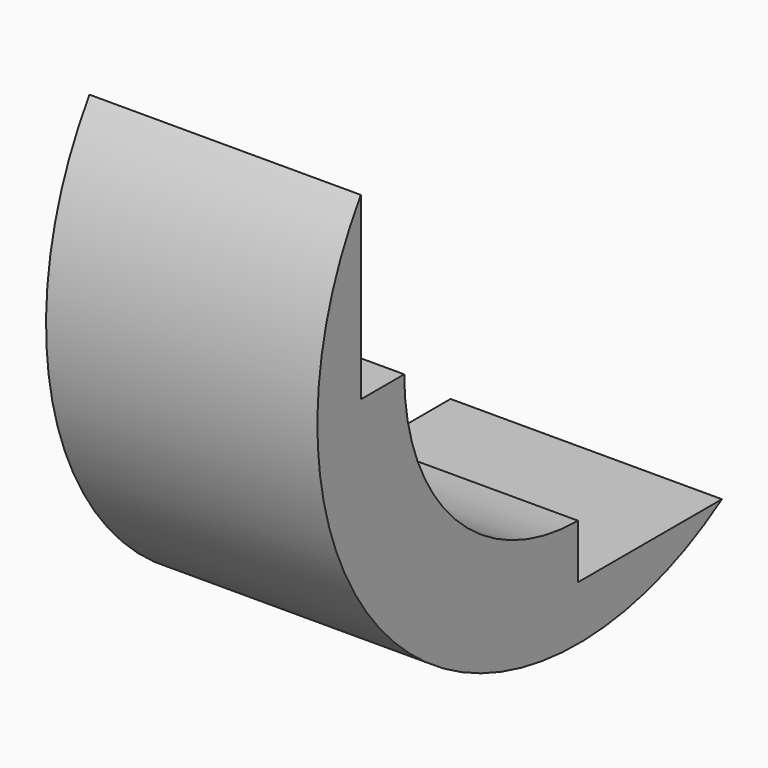
from build123d import *

# Parameters (mm, degrees)
BOX002_W     = 5
BOX002_H     = 10
BOX002_DEPTH = 8
BOX001_W     = 5
BOX001_H     = 8
BOX001_DEPTH = 10
TUBE_R       = 6
TUBE_R_2     = 4
TUBE_DEPTH   = 5


with BuildPart() as cube002:
    # Box002 → Box002 (new body)
    with BuildSketch(Plane(origin=(0, -2, 3), x_dir=(1, 0, 0), z_dir=(0, 0, 1))):
        with Locations((2.5, 5)):
            Rectangle(BOX002_W, BOX002_H)
    extrude(amount=BOX002_DEPTH)


with BuildPart() as cube001:
    # Box001 → Box001 (new body)
    with BuildSketch(Plane(origin=(0, 3, -2), x_dir=(1, 0, 0), z_dir=(0, 0, 1))):
        with Locations((2.5, 4)):
            Rectangle(BOX001_W, BOX001_H)
    extrude(amount=BOX001_DEPTH)


with BuildPart() as cut001:
    # Tube → Tube (new body)
    with BuildSketch(Plane(origin=(0, 3, 3), x_dir=(0, 0, -1), z_dir=(1, 0, 0))):
        Circle(TUBE_R)
        Circle(TUBE_R_2, mode=Mode.SUBTRACT)
    extrude(amount=TUBE_DEPTH)

    # Cut: cut Cube001
    add(cube001.part, mode=Mode.SUBTRACT)

    # Cut001: cut Cube002
    add(cube002.part, mode=Mode.SUBTRACT)


solid = cut001.part
